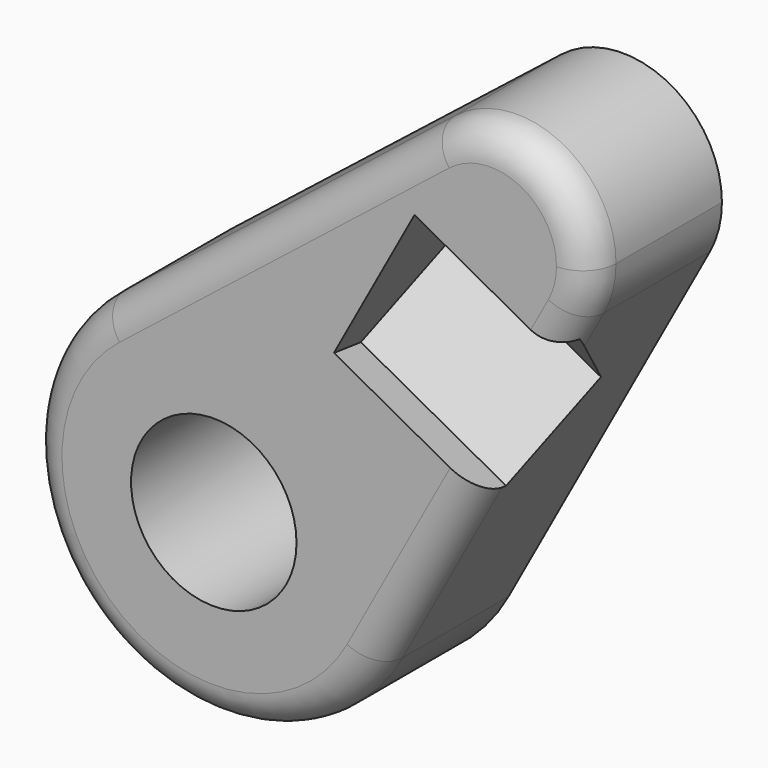
from build123d import *

# Parameters (mm, degrees)
F0_R     = 12.5
F1_DEPTH = 25
F3_DEPTH = 25
F4_R     = 5


with BuildPart() as f1:
    # F0 (on Front) → F1 (new body)
    with BuildSketch(Plane.XZ):
        with BuildLine():
            ThreePointArc((24.534938, -13.386702), (27.082309, -6.907643), (27.949365, 0))
            ThreePointArc((27.949365, 0), (12.18024, 25.15569), (-17.333149, 21.925531))
            ThreePointArc((-17.333149, 21.925531), (-18.01957, -21.364973), (24.534938, -13.386702))
        make_face()
        Circle(F0_R, mode=Mode.SUBTRACT)
        with BuildLine():
            ThreePointArc((-17.333149, 21.925531), (12.18024, 25.15569), (27.949365, 0))
            ThreePointArc((27.949365, 0), (27.082309, -6.907643), (24.534938, -13.386702))
            Line((24.534938, -13.386702), (54.946235, 42.350645))
            ThreePointArc((54.946235, 42.350645), (32.107876, 38.068828), (32.476267, 61.302185))
            Line((32.476267, 61.302185), (-17.333149, 21.925531))
        make_face()
        with BuildLine():
            ThreePointArc((56.778706, 49.535085), (48.315655, 63.035762), (32.476267, 61.302185))
            ThreePointArc((32.476267, 61.302185), (32.107876, 38.068828), (54.946235, 42.350645))
            ThreePointArc((54.946235, 42.350645), (56.31337, 45.827858), (56.778706, 49.535085))
        make_face()
    extrude(amount=F1_DEPTH)

    # F2 (on face) → F3 (cut)
    with BuildSketch(Plane(origin=(24.534938, 0, -13.386702), x_dir=(0, 1, 0), z_dir=(0.877835, 0, -0.478963))):
        Polygon((-19.126982, 31.178041), (-10.197443, 46.199725), (-21.724535, 59.334177), (-25, 57.925509), (-25, 32.504715), align=None)
    extrude(amount=-F3_DEPTH, mode=Mode.SUBTRACT)

    # F4
    f4_edges = [f1.edges().sort_by_distance(p)[0] for p in [
        (7.571559, -25, 41.613858),
    ]]
    fillet(f4_edges, radius=F4_R)


solid = f1.part
